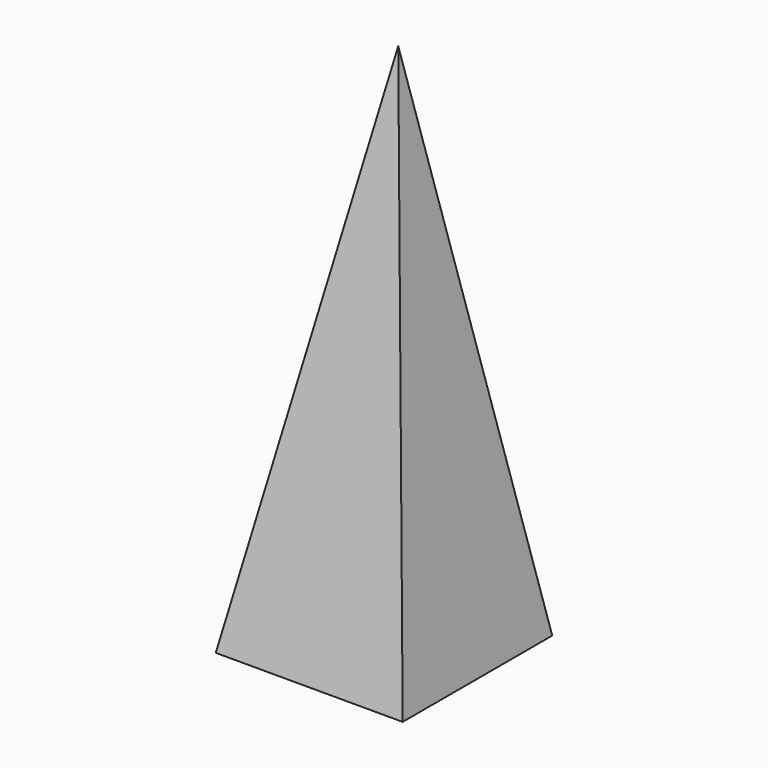
from build123d import *

# Parameters (mm, degrees)
F0_W = 35.560001
F0_H = 35.560001


with BuildPart() as f3:
    # F0 (on Top) → F3 section 0
    with BuildSketch(Plane.XY, mode=Mode.PRIVATE) as f3_s0:
        with Locations((-1.457377, 1.31164)):
            Rectangle(F0_W, F0_H)
    loft([f3_s0.sketch, Vertex(0, 2.873036, 100)])


solid = f3.part
